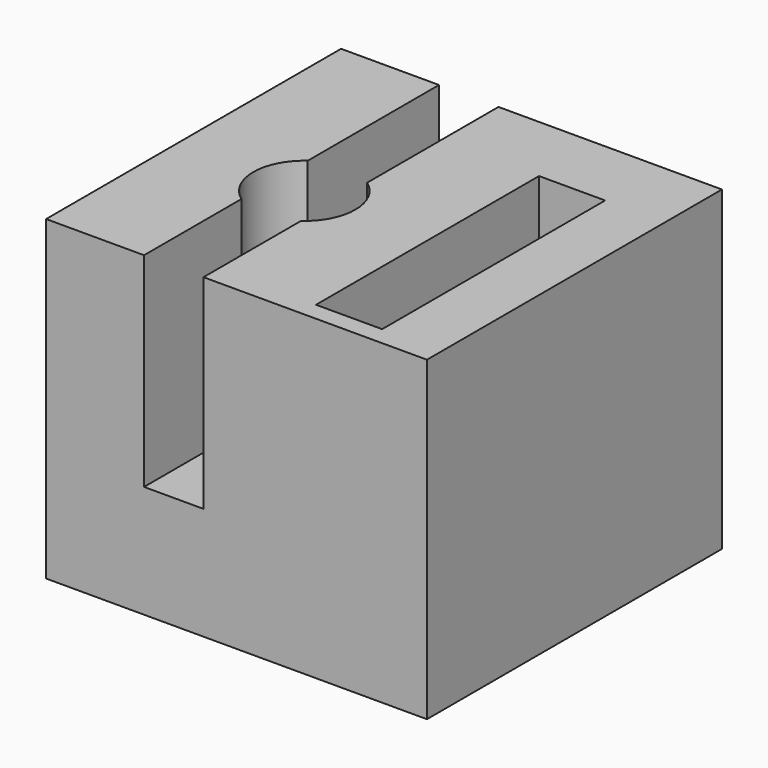
from build123d import *

# Parameters (mm, degrees)
F0_W     = 47.427326
F0_H     = 45.911986
F1_DEPTH = 39.4099
F2_W     = 8.232169
F2_H     = 34.708312
F3_DEPTH = 13.71338
F5_DEPTH = 25.4


with BuildPart() as f1:
    # F0 (on Top) → F1 (new body)
    with BuildSketch(Plane.XY):
        with Locations((23.713663, 22.955993)):
            Rectangle(F0_W, F0_H)
        with Locations((23.713663, 22.955993)):
            Rectangle(F0_W, F0_H)
    extrude(amount=F1_DEPTH)

    # F2 (on face) → F3 (cut)
    with BuildSketch(Plane.XY.offset(39.4099)):
        with Locations((35.889454, 19.653977)):
            Rectangle(F2_W, F2_H)
    extrude(amount=-F3_DEPTH, mode=Mode.SUBTRACT)

    # F4 (on face) → F5 (cut)
    with BuildSketch(Plane.XY.offset(39.4099)):
        with BuildLine():
            Line((12.198345, 45.911986), (12.198345, 25.47945))
            ThreePointArc((12.198345, 25.47945), (9.550043, 20.32), (12.198345, 15.16055))
            Line((12.198345, 15.16055), (12.198345, 0))
            Line((12.198345, 0), (19.601742, 0))
            Line((19.601742, 0), (19.601742, 15.16055))
            ThreePointArc((19.601742, 15.16055), (22.250043, 20.32), (19.601742, 25.47945))
            Line((19.601742, 25.47945), (19.601742, 45.911986))
            Line((19.601742, 45.911986), (12.198345, 45.911986))
        make_face()
    extrude(amount=-F5_DEPTH, mode=Mode.SUBTRACT)


solid = f1.part
